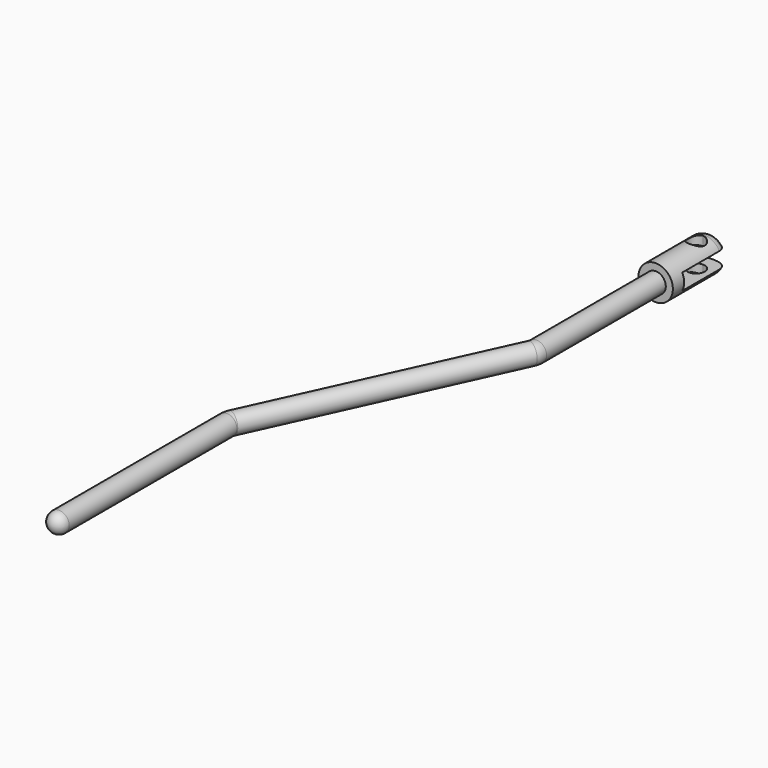
from build123d import *

# Parameters (mm, degrees)
F2_DEPTH      = 25
F2_DEPTH_BACK = 25
F3_W          = 56
F3_H          = 8
F4_DEPTH      = 25
F4_DEPTH_BACK = 25
F5_R          = 5
F7_R          = 5


with BuildPart() as f1:
    # F0 (on Top) → F1 (revolve)
    with BuildSketch(Plane.XY):
        with BuildLine():
            Line((0, 0), (-3.5, 0))
            ThreePointArc((-3.5, 0), (-7.0355339059, -1.4644660941), (-8.5, -5))
            Line((-8.5, -5), (-8.5, -35))
            Line((-8.5, -35), (0, -35))
            Line((0, -35), (0, -14.25))
            ThreePointArc((0, -14.25), (-4.25, -10), (0, -5.75))
            Line((0, -5.75), (0, 0))
        make_face()
        with BuildLine():
            Line((0, -14.25), (0, -5.75))
            ThreePointArc((0, -5.75), (-4.25, -10), (0, -14.25))
        make_face()
    revolve(axis=Axis((0, -17.5, 0), (0, -1, 0)))

    # F0 (on Top) → F2 (cut, two sides)
    with BuildSketch(Plane.XY) as f2_sk:
        with BuildLine():
            Line((0, -14.25), (0, -5.75))
            ThreePointArc((0, -5.75), (-4.25, -10), (0, -14.25))
        make_face()
        with BuildLine():
            ThreePointArc((4.25, -10), (3.00520382, -6.99479618), (0, -5.75))
            Line((0, -5.75), (0, -14.25))
            ThreePointArc((0, -14.25), (3.00520382, -13.00520382), (4.25, -10))
        make_face()
    extrude(amount=-F2_DEPTH, mode=Mode.SUBTRACT)
    extrude(f2_sk.sketch, amount=F2_DEPTH_BACK, mode=Mode.SUBTRACT)

    # F3 (on Right) → F4 (cut, two sides)
    with BuildSketch(Plane.YZ) as f4_sk:
        Rectangle(F3_W, F3_H)
    extrude(amount=-F4_DEPTH, mode=Mode.SUBTRACT)
    extrude(f4_sk.sketch, amount=F4_DEPTH_BACK, mode=Mode.SUBTRACT)

    # F6: sweep along a path in F0
    with BuildLine(Plane.XY) as f6_path:
        Line((0, -35), (0, -108.6904958737))
        ThreePointArc((0, -108.6904958737), (-0.1379895247, -109.9698836913), (-0.5456110626, -111.1904241367))
        Line((-0.5456110626, -111.1904241367), (-54.4543889374, -228.8095758633))
        ThreePointArc((-54.4543889374, -228.8095758633), (-54.8620104753, -230.0301163087), (-55, -231.3095041263))
        Line((-55, -231.3095041263), (-55, -340))
    # F5 (on face) → F6 (sweep)
    with BuildSketch(Plane.XZ.offset(35)):
        Circle(F5_R)
    sweep(path=f6_path.line)

    # F7
    f7_edges = [f1.edges().sort_by_distance(p)[0] for p in [
        (-60, -340, 0),
    ]]
    fillet(f7_edges, radius=F7_R)


solid = f1.part
